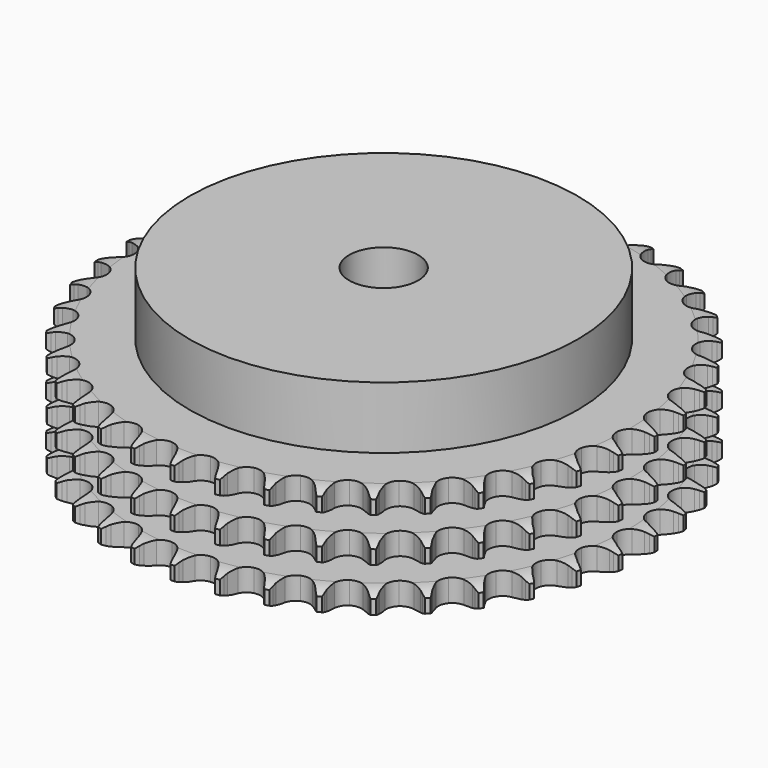
from build123d import *

# Parameters (mm, degrees)
PAD_DEPTH         = 25.6
SKETCH001_R       = 45
PAD001_DEPTH      = 40
SKETCH002_R       = 8
POCKET_DEPTH      = 0.001
POCKET_DEPTH_BACK = 40.001


with BuildPart() as part:
    # Sprocket → Pad (new body)
    with BuildSketch(Plane.XY):
        with BuildLine():
            ThreePointArc((-4.992558, 61.843928), (-4.440066, 61.078118), (-4.037219, 60.224054))
            Line((-4.037219, 60.224054), (-3.72759, 59.372168))
            ThreePointArc((-3.72759, 59.372168), (-3.237296, 58.276891), (-2.594344, 57.263661))
            ThreePointArc((-2.594344, 57.263661), (-1.452389, 56.302176), (0, 55.957095))
            ThreePointArc((0, 55.957095), (1.452389, 56.302176), (2.594344, 57.263661))
            ThreePointArc((2.594344, 57.263661), (3.237296, 58.276891), (3.72759, 59.372168))
            Line((3.72759, 59.372168), (4.037219, 60.224054))
            ThreePointArc((4.037219, 60.224054), (4.440066, 61.078118), (4.992558, 61.843928))
            ThreePointArc((4.992558, 61.843928), (5.415051, 60.99941), (5.675679, 60.091783))
            Line((5.675679, 60.091783), (5.844647, 59.201262))
            ThreePointArc((5.844647, 59.201262), (6.152897, 58.041519), (6.624989, 56.938273))
            ThreePointArc((6.624989, 56.938273), (7.597923, 55.806057), (8.976149, 55.232466))
            ThreePointArc((8.976149, 55.232466), (10.465085, 55.340098), (11.746485, 56.105949))
            Line((11.746485, 56.105949), (13.203284, 58.005367))
            ThreePointArc((13.203284, 58.005367), (13.413623, 58.406995), (13.645556, 58.796552))
            ThreePointArc((13.645556, 58.796552), (14.180188, 59.574936), (14.848369, 60.242203))
            ThreePointArc((14.848369, 60.242203), (15.129921, 59.340848), (15.241581, 58.403168))
            Line((15.241581, 58.403168), (15.265511, 57.497074))
            ThreePointArc((15.265511, 57.497074), (15.383733, 56.302902), (15.672739, 55.138214))
            ThreePointArc((15.672739, 55.138214), (16.451453, 53.864591), (17.719821, 53.077344))
            ThreePointArc((17.719821, 53.077344), (19.206741, 52.944741), (20.594398, 53.495123))
            Line((20.594398, 53.495123), (22.33702, 55.136257))
            ThreePointArc((22.33702, 55.136257), (22.609061, 55.498943), (22.90048, 55.846251))
            ThreePointArc((22.90048, 55.846251), (23.55305, 56.528794), (24.319616, 57.080236))
            ThreePointArc((24.319616, 57.080236), (24.452934, 56.14539), (24.412733, 55.20194))
            Line((24.412733, 55.20194), (24.291005, 54.303742))
            ThreePointArc((24.291005, 54.303742), (24.216139, 53.10607), (24.314573, 51.910105))
            ThreePointArc((24.314573, 51.910105), (24.878899, 50.52806), (26.004559, 49.547547))
            ThreePointArc((26.004559, 49.547547), (27.450952, 49.178142), (28.908927, 49.498802))
            Line((28.908927, 49.498802), (30.892239, 50.839147))
            ThreePointArc((30.892239, 50.839147), (31.218937, 51.153498), (31.562293, 51.449562))
            ThreePointArc((31.562293, 51.449562), (32.3159, 52.018586), (33.160997, 52.439922))
            ThreePointArc((33.160997, 52.439922), (33.142628, 51.495795), (32.951609, 50.571012))
            Line((32.951609, 50.571012), (32.687376, 49.703971))
            ThreePointArc((32.687376, 49.703971), (32.421359, 48.533819), (32.326672, 47.337551))
            ThreePointArc((32.326672, 47.337551), (32.661995, 45.882879), (33.615792, 44.734495))
            ThreePointArc((33.615792, 44.734495), (34.984198, 44.137856), (36.47473, 44.220487))
            Line((36.47473, 44.220487), (38.647366, 45.225329))
            ThreePointArc((38.647366, 45.225329), (39.020258, 45.483204), (39.40666, 45.720356))
            ThreePointArc((39.40666, 45.720356), (40.241786, 46.161124), (41.143526, 46.44144))
            ThreePointArc((41.143526, 46.44144), (40.973947, 45.512487), (40.637055, 44.630321))
            Line((40.637055, 44.630321), (40.237161, 43.816894))
            ThreePointArc((40.237161, 43.816894), (39.786883, 42.704567), (39.501527, 41.538979))
            ThreePointArc((39.501527, 41.538979), (39.599162, 40.049355), (40.356394, 38.762843))
            ThreePointArc((40.356394, 38.762843), (41.611372, 37.954422), (43.095857, 37.796885))
            Line((43.095857, 37.796885), (45.401545, 38.4402))
            ThreePointArc((45.401545, 38.4402), (45.810975, 38.634919), (46.230415, 38.807016))
            ThreePointArc((46.230415, 38.807016), (47.12543, 39.108114), (48.060459, 39.24015))
            ThreePointArc((48.060459, 39.24015), (47.744061, 38.350429), (47.270023, 37.533728))
            Line((47.270023, 37.533728), (46.744824, 36.794982))
            ThreePointArc((46.744824, 36.794982), (46.121947, 35.769289), (45.653313, 34.66457))
            ThreePointArc((45.653313, 34.66457), (45.510732, 33.178574), (46.051787, 31.787253))
            ThreePointArc((46.051787, 31.787253), (47.160833, 30.787989), (48.600824, 30.394364))
            Line((48.600824, 30.394364), (50.979849, 30.659489))
            ThreePointArc((50.979849, 30.659489), (51.415211, 30.78601), (51.856826, 30.888596))
            ThreePointArc((51.856826, 30.888596), (52.788551, 31.042223), (53.732652, 31.022561))
            ThreePointArc((53.732652, 31.022561), (53.277629, 30.195115), (52.678722, 29.465031))
            Line((52.678722, 29.465031), (52.041821, 28.8201))
            ThreePointArc((52.041821, 28.8201), (51.262478, 27.907606), (50.622703, 26.892366))
            ThreePointArc((50.622703, 26.892366), (50.243597, 25.448485), (50.554462, 23.988391))
            ThreePointArc((50.554462, 23.988391), (51.488854, 22.824163), (52.847055, 22.204644))
            Line((52.847055, 22.204644), (55.237801, 22.084714))
            ThreePointArc((55.237801, 22.084714), (55.687821, 22.139759), (56.140173, 22.170176))
            ThreePointArc((56.140173, 22.170176), (57.084476, 22.172355), (58.013196, 22.001503))
            ThreePointArc((58.013196, 22.001503), (57.431335, 21.257763), (56.723069, 20.633206))
            Line((56.723069, 20.633206), (55.990962, 20.098792))
            ThreePointArc((55.990962, 20.098792), (55.075337, 19.32313), (54.280991, 18.423665))
            ThreePointArc((54.280991, 18.423665), (53.67518, 17.059294), (53.747804, 15.568241))
            ThreePointArc((53.747804, 15.568241), (54.48334, 14.269203), (55.724575, 13.439836))
            Line((55.724575, 13.439836), (58.065124, 12.937956))
            ThreePointArc((58.065124, 12.937956), (58.518146, 12.9201), (58.969519, 12.877561))
            ThreePointArc((58.969519, 12.877561), (59.901943, 12.728235), (60.79123, 12.410618))
            ThreePointArc((60.79123, 12.410618), (60.097599, 11.769847), (59.298319, 11.266991))
            Line((59.298319, 11.266991), (58.489967, 10.856936))
            ThreePointArc((58.489967, 10.856936), (57.461774, 10.238195), (56.53343, 9.4778))
            ThreePointArc((56.53343, 9.4778), (55.716604, 8.228277), (55.549105, 6.744883))
            ThreePointArc((55.549105, 6.744883), (56.066736, 5.344678), (57.158858, 4.326943))
            Line((57.158858, 4.326943), (59.38859, 3.456112))
            ThreePointArc((59.38859, 3.456112), (59.832881, 3.365818), (60.271585, 3.251424))
            ThreePointArc((60.271585, 3.251424), (61.167981, 2.954461), (61.994803, 2.498305))
            ThreePointArc((61.994803, 2.498305), (61.207367, 1.977097), (60.337774, 1.608967))
            Line((60.337774, 1.608967), (59.474112, 1.333891))
            ThreePointArc((59.474112, 1.333891), (58.359981, 0.888096), (57.321683, 0.286465))
            ThreePointArc((57.321683, 0.286465), (56.314997, -0.815849), (55.911714, -2.253165))
            ThreePointArc((55.911714, -2.253165), (56.198033, -3.718271), (57.112756, -4.898015))
            Line((57.112756, -4.898015), (59.173922, -6.115243))
            ThreePointArc((59.173922, -6.115243), (59.597976, -6.275638), (60.012649, -6.458923))
            ThreePointArc((60.012649, -6.458923), (60.849801, -6.895833), (61.592743, -7.478713))
            ThreePointArc((61.592743, -7.478713), (60.731897, -7.866858), (59.814512, -8.090728))
            Line((59.814512, -8.090728), (58.917909, -8.223701))
            ThreePointArc((58.917909, -8.223701), (57.746695, -8.485004), (56.625335, -8.91229))
            ThreePointArc((56.625335, -8.91229), (55.454861, -9.838845), (54.826239, -11.192857))
            ThreePointArc((54.826239, -11.192857), (54.873831, -12.684919), (55.587464, -13.996117))
            Line((55.587464, -13.996117), (57.426682, -15.528217))
            ThreePointArc((57.426682, -15.528217), (57.819515, -15.754557), (58.199417, -16.001988))
            ThreePointArc((58.199417, -16.001988), (58.955642, -16.567528), (59.595463, -17.262036))
            ThreePointArc((59.595463, -17.262036), (58.683502, -17.507065), (57.742086, -17.580878))
            Line((57.742086, -17.580878), (56.835763, -17.568304))
            ThreePointArc((56.835763, -17.568304), (55.6378, -17.638346), (54.46242, -17.88022))
            ThreePointArc((54.46242, -17.88022), (53.158473, -18.60702), (52.320793, -19.842659))
            ThreePointArc((52.320793, -19.842659), (52.128425, -21.323034), (52.622486, -22.731727))
            Line((52.622486, -22.731727), (54.19212, -24.539018))
            ThreePointArc((54.19212, -24.539018), (54.543558, -24.825442), (54.878851, -25.130609))
            ThreePointArc((54.878851, -25.130609), (55.534564, -25.810133), (56.054692, -26.598282))
            ThreePointArc((56.054692, -26.598282), (55.115235, -26.693849), (54.17417, -26.615692))
            Line((54.17417, -26.615692), (53.281601, -26.457897))
            ThreePointArc((53.281601, -26.457897), (52.087915, -26.334865), (50.888957, -26.385063))
            ThreePointArc((50.888957, -26.385063), (49.485309, -26.893282), (48.460266, -27.978548))
            ThreePointArc((48.460266, -27.978548), (48.03292, -29.408894), (48.294613, -30.878598))
            Line((48.294613, -30.878598), (49.554011, -32.914272))
            ThreePointArc((49.554011, -32.914272), (49.854953, -33.253362), (50.136951, -33.608361))
            ThreePointArc((50.136951, -33.608361), (50.675169, -34.384269), (51.062134, -35.245646))
            ThreePointArc((51.062134, -35.245646), (50.119513, -35.189276), (49.203171, -34.961174))
            Line((49.203171, -34.961174), (48.347473, -34.662244))
            ThreePointArc((48.347473, -34.662244), (47.188981, -34.349325), (45.997496, -34.206546))
            ThreePointArc((45.997496, -34.206546), (44.530501, -34.483023), (43.344644, -35.389806))
            ThreePointArc((43.344644, -35.389806), (42.693388, -36.733078), (42.715935, -38.225729))
            Line((42.715935, -38.225729), (43.632479, -40.437063))
            ThreePointArc((43.632479, -40.437063), (43.87513, -40.820036), (44.09653, -41.215674))
            ThreePointArc((44.09653, -41.215674), (44.503314, -42.067871), (44.747094, -42.980167))
            ThreePointArc((44.747094, -42.980167), (43.825721, -42.77332), (42.957836, -42.40118))
            Line((42.957836, -42.40118), (42.161171, -41.968857))
            ThreePointArc((42.161171, -41.968857), (41.067877, -41.474155), (39.914725, -41.142097))
            ThreePointArc((39.914725, -41.142097), (38.422377, -41.179672), (37.106418, -41.884487))
            ThreePointArc((37.106418, -41.884487), (36.24812, -43.105896), (36.030937, -44.582834))
            Line((36.030937, -44.582834), (36.580889, -46.912556))
            ThreePointArc((36.580889, -46.912556), (36.758964, -47.329493), (36.914033, -47.755523))
            ThreePointArc((36.914033, -47.755523), (37.178847, -48.661937), (37.273127, -49.601523))
            ThreePointArc((37.273127, -49.601523), (36.396867, -49.249557), (35.599916, -48.743017))
            Line((35.599916, -48.743017), (34.882917, -48.188499))
            ThreePointArc((34.882917, -48.188499), (33.883137, -47.524826), (32.798183, -47.01209))
            ThreePointArc((32.798183, -47.01209), (31.319134, -46.809789), (29.907155, -47.294382))
            ThreePointArc((29.907155, -47.294382), (28.864044, -48.362293), (28.412756, -49.785266))
            Line((28.412756, -49.785266), (28.581873, -52.173037))
            ThreePointArc((28.581873, -52.173037), (28.69076, -52.613141), (28.775481, -53.058529))
            ThreePointArc((28.775481, -53.058529), (28.891467, -53.995684), (28.833806, -54.938227))
            ThreePointArc((28.833806, -54.938227), (28.025353, -54.450256), (27.319977, -53.822436))
            Line((27.319977, -53.822436), (26.701214, -53.160084))
            ThreePointArc((26.701214, -53.160084), (25.820841, -52.34463), (24.832186, -51.664494))
            ThreePointArc((24.832186, -51.664494), (23.404741, -51.227557), (21.933313, -51.479377))
            ThreePointArc((21.933313, -51.479377), (20.732405, -52.366133), (20.0587, -53.698287))
            Line((20.0587, -53.698287), (19.842601, -56.082265))
            ThreePointArc((19.842601, -56.082265), (19.879481, -56.534136), (19.891659, -56.987346))
            ThreePointArc((19.891659, -56.987346), (19.855814, -57.930971), (19.647704, -58.852059))
            ThreePointArc((19.647704, -58.852059), (18.927996, -58.240722), (18.332464, -57.507882))
            Line((18.332464, -57.507882), (17.827963, -56.75485))
            ThreePointArc((17.827963, -56.75485), (17.089798, -55.808734), (16.223048, -54.978815))
            ThreePointArc((16.223048, -54.978815), (14.884178, -54.318558), (13.391409, -54.331084))
            ThreePointArc((13.391409, -54.331084), (12.063808, -55.013717), (11.185134, -56.22055))
            Line((11.185134, -56.22055), (10.589417, -58.538992))
            ThreePointArc((10.589417, -58.538992), (10.553334, -58.990927), (10.492654, -59.440222))
            ThreePointArc((10.492654, -59.440222), (10.305905, -60.365877), (9.952737, -61.241654))
            ThreePointArc((9.952737, -61.241654), (9.340415, -60.522784), (8.870151, -59.703904))
            Line((8.870151, -59.703904), (8.492977, -58.879696))
            ThreePointArc((8.492977, -58.879696), (7.916139, -57.827422), (7.193741, -56.869214))
            ThreePointArc((7.193741, -56.869214), (5.978122, -56.002737), (4.502675, -55.775644))
            ThreePointArc((4.502675, -55.775644), (3.082764, -56.236474), (2.021879, -57.28673))
            Line((2.021879, -57.28673), (1.061972, -59.479589))
            ThreePointArc((1.061972, -59.479589), (0.953861, -59.919884), (0.821895, -60.353627))
            ThreePointArc((0.821895, -60.353627), (0.489078, -61.237338), (0, -62.045122))
            ThreePointArc((0, -62.045122), (-0.489078, -61.237338), (-0.821895, -60.353627))
            Line((-0.821895, -60.353627), (-1.061972, -59.479589))
            ThreePointArc((-1.061972, -59.479589), (-1.462543, -58.348411), (-2.021879, -57.28673))
            ThreePointArc((-2.021879, -57.28673), (-3.082764, -56.236474), (-4.502675, -55.775644))
            ThreePointArc((-4.502675, -55.775644), (-5.978122, -56.002737), (-7.193741, -56.869214))
            Line((-7.193741, -56.869214), (-8.492977, -58.879696))
            ThreePointArc((-8.492977, -58.879696), (-8.670317, -59.296947), (-8.870151, -59.703904))
            ThreePointArc((-8.870151, -59.703904), (-9.340415, -60.522784), (-9.952737, -61.241654))
            ThreePointArc((-9.952737, -61.241654), (-10.305905, -60.365877), (-10.492654, -59.440222))
            Line((-10.492654, -59.440222), (-10.589417, -58.538992))
            ThreePointArc((-10.589417, -58.538992), (-10.803347, -57.358206), (-11.185134, -56.22055))
            ThreePointArc((-11.185134, -56.22055), (-12.063808, -55.013717), (-13.391409, -54.331084))
            ThreePointArc((-13.391409, -54.331084), (-14.884178, -54.318558), (-16.223048, -54.978815))
            Line((-16.223048, -54.978815), (-17.827963, -56.75485))
            ThreePointArc((-17.827963, -56.75485), (-18.069938, -57.138251), (-18.332464, -57.507882))
            ThreePointArc((-18.332464, -57.507882), (-18.927996, -58.240722), (-19.647704, -58.852059))
            ThreePointArc((-19.647704, -58.852059), (-19.855814, -57.930971), (-19.891659, -56.987346))
            Line((-19.891659, -56.987346), (-19.842601, -56.082265))
            ThreePointArc((-19.842601, -56.082265), (-19.86435, -54.882453), (-20.0587, -53.698287))
            ThreePointArc((-20.0587, -53.698287), (-20.732405, -52.366133), (-21.933313, -51.479377))
            ThreePointArc((-21.933313, -51.479377), (-23.404741, -51.227557), (-24.832186, -51.664494))
            Line((-24.832186, -51.664494), (-26.701214, -53.160084))
            ThreePointArc((-26.701214, -53.160084), (-27.001557, -53.499704), (-27.319977, -53.822436))
            ThreePointArc((-27.319977, -53.822436), (-28.025353, -54.450256), (-28.833806, -54.938227))
            ThreePointArc((-28.833806, -54.938227), (-28.891467, -53.995684), (-28.775481, -53.058529))
            Line((-28.775481, -53.058529), (-28.581873, -52.173037))
            ThreePointArc((-28.581873, -52.173037), (-28.410876, -50.985274), (-28.412756, -49.785266))
            ThreePointArc((-28.412756, -49.785266), (-28.864044, -48.362293), (-29.907155, -47.294382))
            ThreePointArc((-29.907155, -47.294382), (-31.319134, -46.809789), (-32.798183, -47.01209))
            Line((-32.798183, -47.01209), (-34.882917, -48.188499))
            ThreePointArc((-34.882917, -48.188499), (-35.23385, -48.475542), (-35.599916, -48.743017))
            ThreePointArc((-35.599916, -48.743017), (-36.396867, -49.249557), (-37.273127, -49.601523))
            ThreePointArc((-37.273127, -49.601523), (-37.178847, -48.661937), (-36.914033, -47.755523))
            Line((-36.914033, -47.755523), (-36.580889, -46.912556))
            ThreePointArc((-36.580889, -46.912556), (-36.221576, -45.767603), (-36.030937, -44.582834))
            ThreePointArc((-36.030937, -44.582834), (-36.24812, -43.105896), (-37.106418, -41.884487))
            ThreePointArc((-37.106418, -41.884487), (-38.422377, -41.179672), (-39.914725, -41.142097))
            Line((-39.914725, -41.142097), (-42.161171, -41.968857))
            ThreePointArc((-42.161171, -41.968857), (-42.553604, -42.19589), (-42.957836, -42.40118))
            ThreePointArc((-42.957836, -42.40118), (-43.825721, -42.77332), (-44.747094, -42.980167))
            ThreePointArc((-44.747094, -42.980167), (-44.503314, -42.067871), (-44.09653, -41.215674))
            Line((-44.09653, -41.215674), (-43.632479, -40.437063))
            ThreePointArc((-43.632479, -40.437063), (-43.094156, -39.364575), (-42.715935, -38.225729))
            ThreePointArc((-42.715935, -38.225729), (-42.693388, -36.733078), (-43.344644, -35.389806))
            ThreePointArc((-43.344644, -35.389806), (-44.530501, -34.483023), (-45.997496, -34.206546))
            Line((-45.997496, -34.206546), (-48.347473, -34.662244))
            ThreePointArc((-48.347473, -34.662244), (-48.771243, -34.823386), (-49.203171, -34.961174))
            ThreePointArc((-49.203171, -34.961174), (-50.119513, -35.189276), (-51.062134, -35.245646))
            ThreePointArc((-51.062134, -35.245646), (-50.675169, -34.384269), (-50.136951, -33.608361))
            Line((-50.136951, -33.608361), (-49.554011, -32.914272))
            ThreePointArc((-49.554011, -32.914272), (-48.85062, -31.942025), (-48.294613, -30.878598))
            ThreePointArc((-48.294613, -30.878598), (-48.03292, -29.408894), (-48.460266, -27.978548))
            ThreePointArc((-48.460266, -27.978548), (-49.485309, -26.893282), (-50.888957, -26.385063))
            Line((-50.888957, -26.385063), (-53.281601, -26.457897))
            ThreePointArc((-53.281601, -26.457897), (-53.725732, -26.548975), (-54.17417, -26.615692))
            ThreePointArc((-54.17417, -26.615692), (-55.115235, -26.693849), (-56.054692, -26.598282))
            ThreePointArc((-56.054692, -26.598282), (-55.534564, -25.810133), (-54.878851, -25.130609))
            Line((-54.878851, -25.130609), (-54.19212, -24.539018))
            ThreePointArc((-54.19212, -24.539018), (-53.341878, -23.692194), (-52.622486, -22.731727))
            ThreePointArc((-52.622486, -22.731727), (-52.128425, -21.323034), (-52.320793, -19.842659))
            ThreePointArc((-52.320793, -19.842659), (-53.158473, -18.60702), (-54.46242, -17.88022))
            Line((-54.46242, -17.88022), (-56.835763, -17.568304))
            ThreePointArc((-56.835763, -17.568304), (-57.288753, -17.586959), (-57.742086, -17.580878))
            ThreePointArc((-57.742086, -17.580878), (-58.683502, -17.507065), (-59.595463, -17.262036))
            ThreePointArc((-59.595463, -17.262036), (-58.955642, -16.567528), (-58.199417, -16.001988))
            Line((-58.199417, -16.001988), (-57.426682, -15.528217))
            ThreePointArc((-57.426682, -15.528217), (-56.45161, -14.828747), (-55.587464, -13.996117))
            ThreePointArc((-55.587464, -13.996117), (-54.873831, -12.684919), (-54.826239, -11.192857))
            ThreePointArc((-54.826239, -11.192857), (-55.454861, -9.838845), (-56.625335, -8.91229))
            Line((-56.625335, -8.91229), (-58.917909, -8.223701))
            ThreePointArc((-58.917909, -8.223701), (-59.368025, -8.16945), (-59.814512, -8.090728))
            ThreePointArc((-59.814512, -8.090728), (-60.731897, -7.866858), (-61.592743, -7.478713))
            ThreePointArc((-61.592743, -7.478713), (-60.849801, -6.895833), (-60.012649, -6.458923))
            Line((-60.012649, -6.458923), (-59.173922, -6.115243))
            ThreePointArc((-59.173922, -6.115243), (-58.099275, -5.581244), (-57.112756, -4.898015))
            ThreePointArc((-57.112756, -4.898015), (-56.198033, -3.718271), (-55.911714, -2.253165))
            ThreePointArc((-55.911714, -2.253165), (-56.314997, -0.815849), (-57.321683, 0.286465))
            Line((-57.321683, 0.286465), (-59.474112, 1.333891))
            ThreePointArc((-59.474112, 1.333891), (-59.909697, 1.459643), (-60.337774, 1.608967))
            ThreePointArc((-60.337774, 1.608967), (-61.207367, 1.977097), (-61.994803, 2.498305))
            ThreePointArc((-61.994803, 2.498305), (-61.167981, 2.954461), (-60.271585, 3.251424))
            Line((-60.271585, 3.251424), (-59.38859, 3.456112))
            ThreePointArc((-59.38859, 3.456112), (-58.242199, 3.810811), (-57.158858, 4.326943))
            ThreePointArc((-57.158858, 4.326943), (-56.066736, 5.344678), (-55.549105, 6.744883))
            ThreePointArc((-55.549105, 6.744883), (-55.716604, 8.228277), (-56.53343, 9.4778))
            Line((-56.53343, 9.4778), (-58.489967, 10.856936))
            ThreePointArc((-58.489967, 10.856936), (-58.899739, 11.050932), (-59.298319, 11.266991))
            ThreePointArc((-59.298319, 11.266991), (-60.097599, 11.769847), (-60.79123, 12.410618))
            ThreePointArc((-60.79123, 12.410618), (-59.901943, 12.728235), (-58.969519, 12.877561))
            Line((-58.969519, 12.877561), (-58.065124, 12.937956))
            ThreePointArc((-58.065124, 12.937956), (-56.876681, 13.104168), (-55.724575, 13.439836))
            ThreePointArc((-55.724575, 13.439836), (-54.48334, 14.269203), (-53.747804, 15.568241))
            ThreePointArc((-53.747804, 15.568241), (-53.67518, 17.059294), (-54.280991, 18.423665))
            Line((-54.280991, 18.423665), (-55.990962, 20.098792))
            ThreePointArc((-55.990962, 20.098792), (-56.364309, 20.356008), (-56.723069, 20.633206))
            ThreePointArc((-56.723069, 20.633206), (-57.431335, 21.257763), (-58.013196, 22.001503))
            ThreePointArc((-58.013196, 22.001503), (-57.084476, 22.172355), (-56.140173, 22.170176))
            Line((-56.140173, 22.170176), (-55.237801, 22.084714))
            ThreePointArc((-55.237801, 22.084714), (-54.038087, 22.058133), (-52.847055, 22.204644))
            ThreePointArc((-52.847055, 22.204644), (-51.488854, 22.824163), (-50.554462, 23.988391))
            ThreePointArc((-50.554462, 23.988391), (-50.243597, 25.448485), (-50.622703, 26.892366))
            Line((-50.622703, 26.892366), (-52.041821, 28.8201))
            ThreePointArc((-52.041821, 28.8201), (-52.369072, 29.133874), (-52.678722, 29.465031))
            ThreePointArc((-52.678722, 29.465031), (-53.277629, 30.195115), (-53.732652, 31.022561))
            ThreePointArc((-53.732652, 31.022561), (-52.788551, 31.042223), (-51.856826, 30.888596))
            Line((-51.856826, 30.888596), (-50.979849, 30.659489))
            ThreePointArc((-50.979849, 30.659489), (-49.799934, 30.440805), (-48.600824, 30.394364))
            ThreePointArc((-48.600824, 30.394364), (-47.160833, 30.787989), (-46.051787, 31.787253))
            ThreePointArc((-46.051787, 31.787253), (-45.510732, 33.178574), (-45.653313, 34.66457))
            Line((-45.653313, 34.66457), (-46.744824, 36.794982))
            ThreePointArc((-46.744824, 36.794982), (-47.017504, 37.157188), (-47.270023, 37.533728))
            ThreePointArc((-47.270023, 37.533728), (-47.744061, 38.350429), (-48.060459, 39.24015))
            ThreePointArc((-48.060459, 39.24015), (-47.12543, 39.108114), (-46.230415, 38.807016))
            Line((-46.230415, 38.807016), (-45.401545, 38.4402))
            ThreePointArc((-45.401545, 38.4402), (-44.27199, 38.035076), (-43.095857, 37.796885))
            ThreePointArc((-43.095857, 37.796885), (-41.611372, 37.954422), (-40.356394, 38.762843))
            ThreePointArc((-40.356394, 38.762843), (-39.599162, 40.049355), (-39.501527, 41.538979))
            Line((-39.501527, 41.538979), (-40.237161, 43.816894))
            ThreePointArc((-40.237161, 43.816894), (-40.448208, 44.21815), (-40.637055, 44.630321))
            ThreePointArc((-40.637055, 44.630321), (-40.973947, 45.512487), (-41.143526, 46.44144))
            ThreePointArc((-41.143526, 46.44144), (-40.241786, 46.161124), (-39.40666, 45.720356))
            Line((-39.40666, 45.720356), (-38.647366, 45.225329))
            ThreePointArc((-38.647366, 45.225329), (-37.597424, 44.644258), (-36.47473, 44.220487))
            ThreePointArc((-36.47473, 44.220487), (-34.984198, 44.137856), (-33.615792, 44.734495))
            ThreePointArc((-33.615792, 44.734495), (-32.661995, 45.882879), (-32.326672, 47.337551))
            Line((-32.326672, 47.337551), (-32.687376, 49.703971))
            ThreePointArc((-32.687376, 49.703971), (-32.831324, 50.133886), (-32.951609, 50.571012))
            ThreePointArc((-32.951609, 50.571012), (-33.142628, 51.495795), (-33.160997, 52.439922))
            ThreePointArc((-33.160997, 52.439922), (-32.3159, 52.018586), (-31.562293, 51.449562))
            Line((-31.562293, 51.449562), (-30.892239, 50.839147))
            ThreePointArc((-30.892239, 50.839147), (-29.949104, 50.097178), (-28.908927, 49.498802))
            ThreePointArc((-28.908927, 49.498802), (-27.450952, 49.178142), (-26.004559, 49.547547))
            ThreePointArc((-26.004559, 49.547547), (-24.878899, 50.52806), (-24.314573, 51.910105))
            Line((-24.314573, 51.910105), (-24.291005, 54.303742))
            ThreePointArc((-24.291005, 54.303742), (-24.364126, 54.75118), (-24.412733, 55.20194))
            ThreePointArc((-24.412733, 55.20194), (-24.452934, 56.14539), (-24.319616, 57.080236))
            ThreePointArc((-24.319616, 57.080236), (-23.55305, 56.528794), (-22.90048, 55.846251))
            Line((-22.90048, 55.846251), (-22.33702, 55.136257))
            ThreePointArc((-22.33702, 55.136257), (-21.525119, 54.252607), (-20.594398, 53.495123))
            ThreePointArc((-20.594398, 53.495123), (-19.206741, 52.944741), (-17.719821, 53.077344))
            ThreePointArc((-17.719821, 53.077344), (-16.451453, 53.864591), (-15.672739, 55.138214))
            Line((-15.672739, 55.138214), (-15.265511, 57.497074))
            ThreePointArc((-15.265511, 57.497074), (-15.26591, 57.950447), (-15.241581, 58.403168))
            ThreePointArc((-15.241581, 58.403168), (-15.129921, 59.340848), (-14.848369, 60.242203))
            ThreePointArc((-14.848369, 60.242203), (-14.180188, 59.574936), (-13.645556, 58.796552))
            Line((-13.645556, 58.796552), (-13.203284, 58.005367))
            ThreePointArc((-13.203284, 58.005367), (-12.543644, 57.002921), (-11.746485, 56.105949))
            ThreePointArc((-11.746485, 56.105949), (-10.465085, 55.340098), (-8.976149, 55.232466))
            ThreePointArc((-8.976149, 55.232466), (-7.597923, 55.806057), (-6.624989, 56.938273))
            Line((-6.624989, 56.938273), (-5.844647, 59.201262))
            ThreePointArc((-5.844647, 59.201262), (-5.772315, 59.648828), (-5.675679, 60.091783))
            ThreePointArc((-5.675679, 60.091783), (-5.415051, 60.99941), (-4.992558, 61.843928))
        make_face()
    extrude(amount=PAD_DEPTH)

    # Sketch → Groove (revolve, cut)
    with BuildSketch(Plane.XZ):
        with BuildLine():
            ThreePointArc((56.891101, 0), (59.127169, 0.253206), (61.25, 1))
            Line((61.25, 1), (61.25, 4.2))
            ThreePointArc((61.25, 4.2), (59.127169, 4.946794), (56.891101, 5.2))
            Line((45, 5.2), (56.891101, 5.2))
            Line((45, 5.2), (45, 10.2))
            Line((45, 10.2), (56.891101, 10.2))
            ThreePointArc((56.891101, 10.2), (59.127169, 10.453206), (61.25, 11.2))
            Line((61.25, 14.4), (61.25, 11.2))
            ThreePointArc((61.25, 14.4), (59.127169, 15.146794), (56.891101, 15.4))
            Line((45, 15.4), (56.891101, 15.4))
            Line((45, 20.4), (45, 15.4))
            Line((56.891101, 20.4), (45, 20.4))
            ThreePointArc((56.891101, 20.4), (59.127169, 20.653206), (61.25, 21.4))
            Line((61.25, 21.4), (61.25, 24.6))
            ThreePointArc((61.25, 24.6), (59.127169, 25.346794), (56.891101, 25.6))
            Line((56.891101, 25.6), (71.25, 25.6))
            Line((71.25, 25.6), (71.25, 0))
            Line((56.891101, 0), (71.25, 0))
        make_face()
    revolve(axis=Axis((0, 0, 0), (0, 0, 1)), mode=Mode.SUBTRACT)

    # Sketch001 → Pad001 (join)
    with BuildSketch(Plane.XY):
        Circle(SKETCH001_R)
    extrude(amount=PAD001_DEPTH)

    # Sketch002 → Pocket (cut, two sides)
    with BuildSketch(Plane.XY) as pocket_sk:
        Circle(SKETCH002_R)
    extrude(amount=-POCKET_DEPTH, mode=Mode.SUBTRACT)
    extrude(pocket_sk.sketch, amount=POCKET_DEPTH_BACK, mode=Mode.SUBTRACT)


solid = part.part
